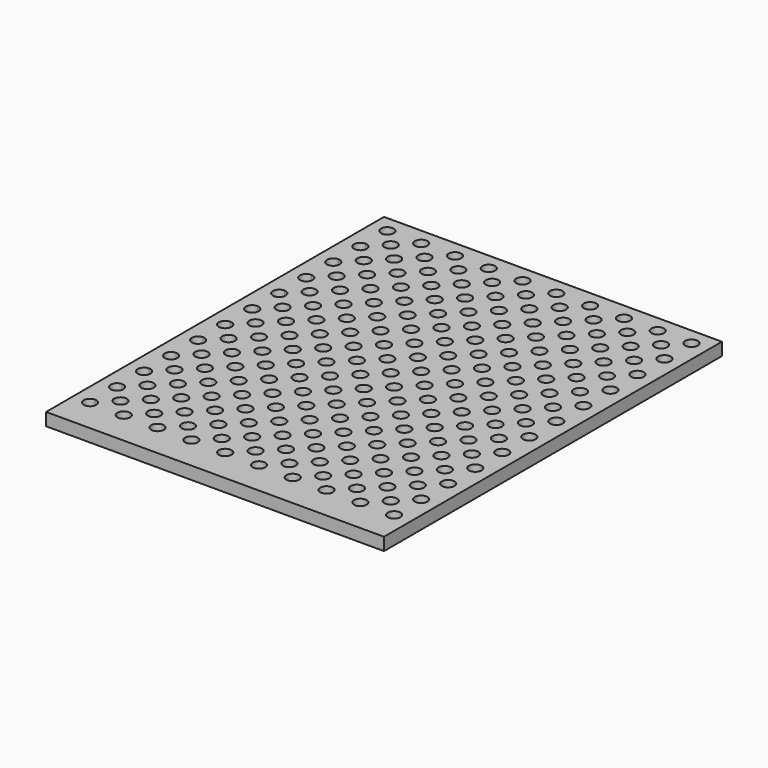
from build123d import *

# Parameters (mm, degrees)
F0_W     = 203.2
F0_H     = 254
F0_R     = 3.81
F1_DEPTH = 7.62


with BuildPart() as f1:
    # F0 (on Top) → F1 (new body)
    with BuildSketch(Plane.XY):
        Rectangle(F0_W, F0_H)
        with BuildLine():
            ThreePointArc((-87.63, -106.68), (-94.134077, -109.374077), (-91.44, -102.87))
            ThreePointArc((-91.44, -102.87), (-88.745923, -103.985923), (-87.63, -106.68))
        make_face(mode=Mode.SUBTRACT)
        with Locations((-81.28, -96.52)):
            Circle(F0_R, mode=Mode.SUBTRACT)
        with Locations((-71.12, -106.68)):
            Circle(F0_R, mode=Mode.SUBTRACT)
        with Locations((-50.8, -106.68)):
            Circle(F0_R, mode=Mode.SUBTRACT)
        with Locations((-60.96, -96.52)):
            Circle(F0_R, mode=Mode.SUBTRACT)
        with BuildLine():
            ThreePointArc((-91.44, -90.17), (-95.25, -86.36), (-91.44, -82.55))
            ThreePointArc((-91.44, -82.55), (-88.745923, -83.665923), (-87.63, -86.36))
            ThreePointArc((-87.63, -86.36), (-88.745923, -89.054077), (-91.44, -90.17))
        make_face(mode=Mode.SUBTRACT)
        with BuildLine():
            ThreePointArc((-91.44, -69.85), (-95.25, -66.04), (-91.44, -62.23))
            ThreePointArc((-91.44, -62.23), (-88.745923, -63.345923), (-87.63, -66.04))
            ThreePointArc((-87.63, -66.04), (-88.745923, -68.734077), (-91.44, -69.85))
        make_face(mode=Mode.SUBTRACT)
        with Locations((-81.28, -76.2)):
            Circle(F0_R, mode=Mode.SUBTRACT)
        with Locations((-71.12, -86.36)):
            Circle(F0_R, mode=Mode.SUBTRACT)
        with Locations((-50.8, -86.36)):
            Circle(F0_R, mode=Mode.SUBTRACT)
        with Locations((-71.12, -66.04)):
            Circle(F0_R, mode=Mode.SUBTRACT)
        with Locations((-60.96, -76.2)):
            Circle(F0_R, mode=Mode.SUBTRACT)
        with Locations((-50.8, -66.04)):
            Circle(F0_R, mode=Mode.SUBTRACT)
        with Locations((-40.64, -96.52)):
            Circle(F0_R, mode=Mode.SUBTRACT)
        with Locations((-30.48, -106.68)):
            Circle(F0_R, mode=Mode.SUBTRACT)
        with Locations((-20.32, -96.52)):
            Circle(F0_R, mode=Mode.SUBTRACT)
        with Locations((-10.16, -106.68)):
            Circle(F0_R, mode=Mode.SUBTRACT)
        with Locations((0, -96.52)):
            Circle(F0_R, mode=Mode.SUBTRACT)
        with Locations((-30.48, -86.36)):
            Circle(F0_R, mode=Mode.SUBTRACT)
        with Locations((-40.64, -76.2)):
            Circle(F0_R, mode=Mode.SUBTRACT)
        with Locations((-30.48, -66.04)):
            Circle(F0_R, mode=Mode.SUBTRACT)
        with Locations((-10.16, -86.36)):
            Circle(F0_R, mode=Mode.SUBTRACT)
        with Locations((-20.32, -76.2)):
            Circle(F0_R, mode=Mode.SUBTRACT)
        with Locations((0, -76.2)):
            Circle(F0_R, mode=Mode.SUBTRACT)
        with Locations((-10.16, -66.04)):
            Circle(F0_R, mode=Mode.SUBTRACT)
        with Locations((-81.28, -55.88)):
            Circle(F0_R, mode=Mode.SUBTRACT)
        with BuildLine():
            ThreePointArc((-91.44, -49.53), (-95.25, -45.72), (-91.44, -41.91))
            ThreePointArc((-91.44, -41.91), (-88.745923, -43.025923), (-87.63, -45.72))
            ThreePointArc((-87.63, -45.72), (-88.745923, -48.414077), (-91.44, -49.53))
        make_face(mode=Mode.SUBTRACT)
        with Locations((-81.28, -35.56)):
            Circle(F0_R, mode=Mode.SUBTRACT)
        with Locations((-60.96, -55.88)):
            Circle(F0_R, mode=Mode.SUBTRACT)
        with Locations((-71.12, -45.72)):
            Circle(F0_R, mode=Mode.SUBTRACT)
        with Locations((-50.8, -45.72)):
            Circle(F0_R, mode=Mode.SUBTRACT)
        with Locations((-60.96, -35.56)):
            Circle(F0_R, mode=Mode.SUBTRACT)
        with BuildLine():
            ThreePointArc((-91.44, -29.21), (-95.25, -25.4), (-91.44, -21.59))
            ThreePointArc((-91.44, -21.59), (-88.745923, -22.705923), (-87.63, -25.4))
            ThreePointArc((-87.63, -25.4), (-88.745923, -28.094077), (-91.44, -29.21))
        make_face(mode=Mode.SUBTRACT)
        with BuildLine():
            ThreePointArc((-91.44, -8.89), (-95.25, -5.08), (-91.44, -1.27))
            ThreePointArc((-91.44, -1.27), (-88.745923, -2.385923), (-87.63, -5.08))
            ThreePointArc((-87.63, -5.08), (-88.745923, -7.774077), (-91.44, -8.89))
        make_face(mode=Mode.SUBTRACT)
        with Locations((-81.28, -15.24)):
            Circle(F0_R, mode=Mode.SUBTRACT)
        with Locations((-71.12, -25.4)):
            Circle(F0_R, mode=Mode.SUBTRACT)
        with Locations((-50.8, -25.4)):
            Circle(F0_R, mode=Mode.SUBTRACT)
        with Locations((-71.12, -5.08)):
            Circle(F0_R, mode=Mode.SUBTRACT)
        with Locations((-60.96, -15.24)):
            Circle(F0_R, mode=Mode.SUBTRACT)
        with Locations((-50.8, -5.08)):
            Circle(F0_R, mode=Mode.SUBTRACT)
        with Locations((-40.64, -55.88)):
            Circle(F0_R, mode=Mode.SUBTRACT)
        with Locations((-40.64, -35.56)):
            Circle(F0_R, mode=Mode.SUBTRACT)
        with Locations((-30.48, -45.72)):
            Circle(F0_R, mode=Mode.SUBTRACT)
        with Locations((-20.32, -55.88)):
            Circle(F0_R, mode=Mode.SUBTRACT)
        with Locations((0, -55.88)):
            Circle(F0_R, mode=Mode.SUBTRACT)
        with Locations((-20.32, -35.56)):
            Circle(F0_R, mode=Mode.SUBTRACT)
        with Locations((-10.16, -45.72)):
            Circle(F0_R, mode=Mode.SUBTRACT)
        with Locations((0, -35.56)):
            Circle(F0_R, mode=Mode.SUBTRACT)
        with Locations((-30.48, -25.4)):
            Circle(F0_R, mode=Mode.SUBTRACT)
        with Locations((-40.64, -15.24)):
            Circle(F0_R, mode=Mode.SUBTRACT)
        with Locations((-30.48, -5.08)):
            Circle(F0_R, mode=Mode.SUBTRACT)
        with Locations((-10.16, -25.4)):
            Circle(F0_R, mode=Mode.SUBTRACT)
        with Locations((-20.32, -15.24)):
            Circle(F0_R, mode=Mode.SUBTRACT)
        with Locations((0, -15.24)):
            Circle(F0_R, mode=Mode.SUBTRACT)
        with Locations((-10.16, -5.08)):
            Circle(F0_R, mode=Mode.SUBTRACT)
        with Locations((10.16, -106.68)):
            Circle(F0_R, mode=Mode.SUBTRACT)
        with Locations((20.32, -96.52)):
            Circle(F0_R, mode=Mode.SUBTRACT)
        with Locations((30.48, -106.68)):
            Circle(F0_R, mode=Mode.SUBTRACT)
        with Locations((50.8, -106.68)):
            Circle(F0_R, mode=Mode.SUBTRACT)
        with Locations((40.64, -96.52)):
            Circle(F0_R, mode=Mode.SUBTRACT)
        with Locations((10.16, -86.36)):
            Circle(F0_R, mode=Mode.SUBTRACT)
        with Locations((10.16, -66.04)):
            Circle(F0_R, mode=Mode.SUBTRACT)
        with Locations((20.32, -76.2)):
            Circle(F0_R, mode=Mode.SUBTRACT)
        with Locations((30.48, -86.36)):
            Circle(F0_R, mode=Mode.SUBTRACT)
        with Locations((50.8, -86.36)):
            Circle(F0_R, mode=Mode.SUBTRACT)
        with Locations((30.48, -66.04)):
            Circle(F0_R, mode=Mode.SUBTRACT)
        with Locations((40.64, -76.2)):
            Circle(F0_R, mode=Mode.SUBTRACT)
        with Locations((50.8, -66.04)):
            Circle(F0_R, mode=Mode.SUBTRACT)
        with Locations((60.96, -96.52)):
            Circle(F0_R, mode=Mode.SUBTRACT)
        with Locations((71.12, -106.68)):
            Circle(F0_R, mode=Mode.SUBTRACT)
        with Locations((81.28, -96.52)):
            Circle(F0_R, mode=Mode.SUBTRACT)
        with Locations((91.44, -106.68)):
            Circle(F0_R, mode=Mode.SUBTRACT)
        with Locations((71.12, -86.36)):
            Circle(F0_R, mode=Mode.SUBTRACT)
        with Locations((60.96, -76.2)):
            Circle(F0_R, mode=Mode.SUBTRACT)
        with Locations((71.12, -66.04)):
            Circle(F0_R, mode=Mode.SUBTRACT)
        with Locations((91.44, -86.36)):
            Circle(F0_R, mode=Mode.SUBTRACT)
        with Locations((81.28, -76.2)):
            Circle(F0_R, mode=Mode.SUBTRACT)
        with Locations((91.44, -66.04)):
            Circle(F0_R, mode=Mode.SUBTRACT)
        with Locations((20.32, -55.88)):
            Circle(F0_R, mode=Mode.SUBTRACT)
        with Locations((10.16, -45.72)):
            Circle(F0_R, mode=Mode.SUBTRACT)
        with Locations((20.32, -35.56)):
            Circle(F0_R, mode=Mode.SUBTRACT)
        with Locations((40.64, -55.88)):
            Circle(F0_R, mode=Mode.SUBTRACT)
        with Locations((30.48, -45.72)):
            Circle(F0_R, mode=Mode.SUBTRACT)
        with Locations((50.8, -45.72)):
            Circle(F0_R, mode=Mode.SUBTRACT)
        with Locations((40.64, -35.56)):
            Circle(F0_R, mode=Mode.SUBTRACT)
        with Locations((10.16, -25.4)):
            Circle(F0_R, mode=Mode.SUBTRACT)
        with Locations((10.16, -5.08)):
            Circle(F0_R, mode=Mode.SUBTRACT)
        with Locations((20.32, -15.24)):
            Circle(F0_R, mode=Mode.SUBTRACT)
        with Locations((30.48, -25.4)):
            Circle(F0_R, mode=Mode.SUBTRACT)
        with Locations((50.8, -25.4)):
            Circle(F0_R, mode=Mode.SUBTRACT)
        with Locations((30.48, -5.08)):
            Circle(F0_R, mode=Mode.SUBTRACT)
        with Locations((40.64, -15.24)):
            Circle(F0_R, mode=Mode.SUBTRACT)
        with Locations((50.8, -5.08)):
            Circle(F0_R, mode=Mode.SUBTRACT)
        with Locations((60.96, -55.88)):
            Circle(F0_R, mode=Mode.SUBTRACT)
        with Locations((60.96, -35.56)):
            Circle(F0_R, mode=Mode.SUBTRACT)
        with Locations((71.12, -45.72)):
            Circle(F0_R, mode=Mode.SUBTRACT)
        with Locations((81.28, -55.88)):
            Circle(F0_R, mode=Mode.SUBTRACT)
        with Locations((81.28, -35.56)):
            Circle(F0_R, mode=Mode.SUBTRACT)
        with Locations((91.44, -45.72)):
            Circle(F0_R, mode=Mode.SUBTRACT)
        with Locations((71.12, -25.4)):
            Circle(F0_R, mode=Mode.SUBTRACT)
        with Locations((60.96, -15.24)):
            Circle(F0_R, mode=Mode.SUBTRACT)
        with Locations((71.12, -5.08)):
            Circle(F0_R, mode=Mode.SUBTRACT)
        with Locations((91.44, -25.4)):
            Circle(F0_R, mode=Mode.SUBTRACT)
        with Locations((81.28, -15.24)):
            Circle(F0_R, mode=Mode.SUBTRACT)
        with Locations((91.44, -5.08)):
            Circle(F0_R, mode=Mode.SUBTRACT)
        with BuildLine():
            ThreePointArc((-91.44, 11.43), (-95.25, 15.24), (-91.44, 19.05))
            ThreePointArc((-91.44, 19.05), (-88.745923, 17.934077), (-87.63, 15.24))
            ThreePointArc((-87.63, 15.24), (-88.745923, 12.545923), (-91.44, 11.43))
        make_face(mode=Mode.SUBTRACT)
        with Locations((-81.28, 5.08)):
            Circle(F0_R, mode=Mode.SUBTRACT)
        with Locations((-81.28, 25.4)):
            Circle(F0_R, mode=Mode.SUBTRACT)
        with Locations((-71.12, 15.24)):
            Circle(F0_R, mode=Mode.SUBTRACT)
        with Locations((-60.96, 5.08)):
            Circle(F0_R, mode=Mode.SUBTRACT)
        with Locations((-50.8, 15.24)):
            Circle(F0_R, mode=Mode.SUBTRACT)
        with Locations((-60.96, 25.4)):
            Circle(F0_R, mode=Mode.SUBTRACT)
        with BuildLine():
            ThreePointArc((-91.44, 31.75), (-95.25, 35.56), (-91.44, 39.37))
            ThreePointArc((-91.44, 39.37), (-88.745923, 38.254077), (-87.63, 35.56))
            ThreePointArc((-87.63, 35.56), (-88.745923, 32.865923), (-91.44, 31.75))
        make_face(mode=Mode.SUBTRACT)
        with Locations((-81.28, 45.72)):
            Circle(F0_R, mode=Mode.SUBTRACT)
        with BuildLine():
            ThreePointArc((-91.44, 52.07), (-95.25, 55.88), (-91.44, 59.69))
            ThreePointArc((-91.44, 59.69), (-88.745923, 58.574077), (-87.63, 55.88))
            ThreePointArc((-87.63, 55.88), (-88.745923, 53.185923), (-91.44, 52.07))
        make_face(mode=Mode.SUBTRACT)
        with Locations((-71.12, 35.56)):
            Circle(F0_R, mode=Mode.SUBTRACT)
        with Locations((-50.8, 35.56)):
            Circle(F0_R, mode=Mode.SUBTRACT)
        with Locations((-60.96, 45.72)):
            Circle(F0_R, mode=Mode.SUBTRACT)
        with Locations((-71.12, 55.88)):
            Circle(F0_R, mode=Mode.SUBTRACT)
        with Locations((-50.8, 55.88)):
            Circle(F0_R, mode=Mode.SUBTRACT)
        with Locations((-40.64, 5.08)):
            Circle(F0_R, mode=Mode.SUBTRACT)
        with Locations((-30.48, 15.24)):
            Circle(F0_R, mode=Mode.SUBTRACT)
        with Locations((-40.64, 25.4)):
            Circle(F0_R, mode=Mode.SUBTRACT)
        with Locations((-20.32, 5.08)):
            Circle(F0_R, mode=Mode.SUBTRACT)
        with Locations((0, 5.08)):
            Circle(F0_R, mode=Mode.SUBTRACT)
        with Locations((-10.16, 15.24)):
            Circle(F0_R, mode=Mode.SUBTRACT)
        with Locations((-20.32, 25.4)):
            Circle(F0_R, mode=Mode.SUBTRACT)
        with Locations((0, 25.4)):
            Circle(F0_R, mode=Mode.SUBTRACT)
        with Locations((-40.64, 45.72)):
            Circle(F0_R, mode=Mode.SUBTRACT)
        with Locations((-30.48, 35.56)):
            Circle(F0_R, mode=Mode.SUBTRACT)
        with Locations((-30.48, 55.88)):
            Circle(F0_R, mode=Mode.SUBTRACT)
        with Locations((-20.32, 45.72)):
            Circle(F0_R, mode=Mode.SUBTRACT)
        with Locations((-10.16, 35.56)):
            Circle(F0_R, mode=Mode.SUBTRACT)
        with Locations((0, 45.72)):
            Circle(F0_R, mode=Mode.SUBTRACT)
        with Locations((-10.16, 55.88)):
            Circle(F0_R, mode=Mode.SUBTRACT)
        with BuildLine():
            ThreePointArc((-91.44, 72.39), (-95.25, 76.2), (-91.44, 80.01))
            ThreePointArc((-91.44, 80.01), (-88.745923, 78.894077), (-87.63, 76.2))
            ThreePointArc((-87.63, 76.2), (-88.745923, 73.505923), (-91.44, 72.39))
        make_face(mode=Mode.SUBTRACT)
        with Locations((-81.28, 66.04)):
            Circle(F0_R, mode=Mode.SUBTRACT)
        with Locations((-81.28, 86.36)):
            Circle(F0_R, mode=Mode.SUBTRACT)
        with Locations((-71.12, 76.2)):
            Circle(F0_R, mode=Mode.SUBTRACT)
        with Locations((-60.96, 66.04)):
            Circle(F0_R, mode=Mode.SUBTRACT)
        with Locations((-50.8, 76.2)):
            Circle(F0_R, mode=Mode.SUBTRACT)
        with Locations((-60.96, 86.36)):
            Circle(F0_R, mode=Mode.SUBTRACT)
        with BuildLine():
            ThreePointArc((-91.44, 92.71), (-95.25, 96.52), (-91.44, 100.33))
            ThreePointArc((-91.44, 100.33), (-88.745923, 99.214077), (-87.63, 96.52))
            ThreePointArc((-87.63, 96.52), (-88.745923, 93.825923), (-91.44, 92.71))
        make_face(mode=Mode.SUBTRACT)
        with Locations((-81.28, 106.68)):
            Circle(F0_R, mode=Mode.SUBTRACT)
        with BuildLine():
            ThreePointArc((-91.44, 113.03), (-94.134077, 119.534077), (-87.63, 116.84))
            ThreePointArc((-87.63, 116.84), (-88.745923, 114.145923), (-91.44, 113.03))
        make_face(mode=Mode.SUBTRACT)
        with Locations((-71.12, 96.52)):
            Circle(F0_R, mode=Mode.SUBTRACT)
        with Locations((-50.8, 96.52)):
            Circle(F0_R, mode=Mode.SUBTRACT)
        with Locations((-60.96, 106.68)):
            Circle(F0_R, mode=Mode.SUBTRACT)
        with Locations((-71.12, 116.84)):
            Circle(F0_R, mode=Mode.SUBTRACT)
        with Locations((-50.8, 116.84)):
            Circle(F0_R, mode=Mode.SUBTRACT)
        with Locations((-40.64, 66.04)):
            Circle(F0_R, mode=Mode.SUBTRACT)
        with Locations((-30.48, 76.2)):
            Circle(F0_R, mode=Mode.SUBTRACT)
        with Locations((-40.64, 86.36)):
            Circle(F0_R, mode=Mode.SUBTRACT)
        with Locations((-20.32, 66.04)):
            Circle(F0_R, mode=Mode.SUBTRACT)
        with Locations((0, 66.04)):
            Circle(F0_R, mode=Mode.SUBTRACT)
        with Locations((-10.16, 76.2)):
            Circle(F0_R, mode=Mode.SUBTRACT)
        with Locations((-20.32, 86.36)):
            Circle(F0_R, mode=Mode.SUBTRACT)
        with Locations((0, 86.36)):
            Circle(F0_R, mode=Mode.SUBTRACT)
        with Locations((-40.64, 106.68)):
            Circle(F0_R, mode=Mode.SUBTRACT)
        with Locations((-30.48, 96.52)):
            Circle(F0_R, mode=Mode.SUBTRACT)
        with Locations((-30.48, 116.84)):
            Circle(F0_R, mode=Mode.SUBTRACT)
        with Locations((-20.32, 106.68)):
            Circle(F0_R, mode=Mode.SUBTRACT)
        with Locations((-10.16, 96.52)):
            Circle(F0_R, mode=Mode.SUBTRACT)
        with Locations((0, 106.68)):
            Circle(F0_R, mode=Mode.SUBTRACT)
        with Locations((-10.16, 116.84)):
            Circle(F0_R, mode=Mode.SUBTRACT)
        with Locations((10.16, 15.24)):
            Circle(F0_R, mode=Mode.SUBTRACT)
        with Locations((20.32, 5.08)):
            Circle(F0_R, mode=Mode.SUBTRACT)
        with Locations((20.32, 25.4)):
            Circle(F0_R, mode=Mode.SUBTRACT)
        with Locations((30.48, 15.24)):
            Circle(F0_R, mode=Mode.SUBTRACT)
        with Locations((40.64, 5.08)):
            Circle(F0_R, mode=Mode.SUBTRACT)
        with Locations((50.8, 15.24)):
            Circle(F0_R, mode=Mode.SUBTRACT)
        with Locations((40.64, 25.4)):
            Circle(F0_R, mode=Mode.SUBTRACT)
        with Locations((10.16, 35.56)):
            Circle(F0_R, mode=Mode.SUBTRACT)
        with Locations((20.32, 45.72)):
            Circle(F0_R, mode=Mode.SUBTRACT)
        with Locations((10.16, 55.88)):
            Circle(F0_R, mode=Mode.SUBTRACT)
        with Locations((30.48, 35.56)):
            Circle(F0_R, mode=Mode.SUBTRACT)
        with Locations((50.8, 35.56)):
            Circle(F0_R, mode=Mode.SUBTRACT)
        with Locations((40.64, 45.72)):
            Circle(F0_R, mode=Mode.SUBTRACT)
        with Locations((30.48, 55.88)):
            Circle(F0_R, mode=Mode.SUBTRACT)
        with Locations((50.8, 55.88)):
            Circle(F0_R, mode=Mode.SUBTRACT)
        with Locations((60.96, 5.08)):
            Circle(F0_R, mode=Mode.SUBTRACT)
        with Locations((71.12, 15.24)):
            Circle(F0_R, mode=Mode.SUBTRACT)
        with Locations((60.96, 25.4)):
            Circle(F0_R, mode=Mode.SUBTRACT)
        with Locations((81.28, 5.08)):
            Circle(F0_R, mode=Mode.SUBTRACT)
        with Locations((91.44, 15.24)):
            Circle(F0_R, mode=Mode.SUBTRACT)
        with Locations((81.28, 25.4)):
            Circle(F0_R, mode=Mode.SUBTRACT)
        with Locations((60.96, 45.72)):
            Circle(F0_R, mode=Mode.SUBTRACT)
        with Locations((71.12, 35.56)):
            Circle(F0_R, mode=Mode.SUBTRACT)
        with Locations((71.12, 55.88)):
            Circle(F0_R, mode=Mode.SUBTRACT)
        with Locations((81.28, 45.72)):
            Circle(F0_R, mode=Mode.SUBTRACT)
        with Locations((91.44, 35.56)):
            Circle(F0_R, mode=Mode.SUBTRACT)
        with Locations((91.44, 55.88)):
            Circle(F0_R, mode=Mode.SUBTRACT)
        with Locations((10.16, 76.2)):
            Circle(F0_R, mode=Mode.SUBTRACT)
        with Locations((20.32, 66.04)):
            Circle(F0_R, mode=Mode.SUBTRACT)
        with Locations((20.32, 86.36)):
            Circle(F0_R, mode=Mode.SUBTRACT)
        with Locations((30.48, 76.2)):
            Circle(F0_R, mode=Mode.SUBTRACT)
        with Locations((40.64, 66.04)):
            Circle(F0_R, mode=Mode.SUBTRACT)
        with Locations((50.8, 76.2)):
            Circle(F0_R, mode=Mode.SUBTRACT)
        with Locations((40.64, 86.36)):
            Circle(F0_R, mode=Mode.SUBTRACT)
        with Locations((10.16, 96.52)):
            Circle(F0_R, mode=Mode.SUBTRACT)
        with Locations((20.32, 106.68)):
            Circle(F0_R, mode=Mode.SUBTRACT)
        with Locations((10.16, 116.84)):
            Circle(F0_R, mode=Mode.SUBTRACT)
        with Locations((30.48, 96.52)):
            Circle(F0_R, mode=Mode.SUBTRACT)
        with Locations((50.8, 96.52)):
            Circle(F0_R, mode=Mode.SUBTRACT)
        with Locations((40.64, 106.68)):
            Circle(F0_R, mode=Mode.SUBTRACT)
        with Locations((30.48, 116.84)):
            Circle(F0_R, mode=Mode.SUBTRACT)
        with Locations((50.8, 116.84)):
            Circle(F0_R, mode=Mode.SUBTRACT)
        with Locations((60.96, 66.04)):
            Circle(F0_R, mode=Mode.SUBTRACT)
        with Locations((71.12, 76.2)):
            Circle(F0_R, mode=Mode.SUBTRACT)
        with Locations((60.96, 86.36)):
            Circle(F0_R, mode=Mode.SUBTRACT)
        with Locations((81.28, 66.04)):
            Circle(F0_R, mode=Mode.SUBTRACT)
        with Locations((91.44, 76.2)):
            Circle(F0_R, mode=Mode.SUBTRACT)
        with Locations((81.28, 86.36)):
            Circle(F0_R, mode=Mode.SUBTRACT)
        with Locations((60.96, 106.68)):
            Circle(F0_R, mode=Mode.SUBTRACT)
        with Locations((71.12, 96.52)):
            Circle(F0_R, mode=Mode.SUBTRACT)
        with Locations((71.12, 116.84)):
            Circle(F0_R, mode=Mode.SUBTRACT)
        with Locations((81.28, 106.68)):
            Circle(F0_R, mode=Mode.SUBTRACT)
        with Locations((91.44, 96.52)):
            Circle(F0_R, mode=Mode.SUBTRACT)
        with Locations((91.44, 116.84)):
            Circle(F0_R, mode=Mode.SUBTRACT)
    extrude(amount=F1_DEPTH)


solid = f1.part
